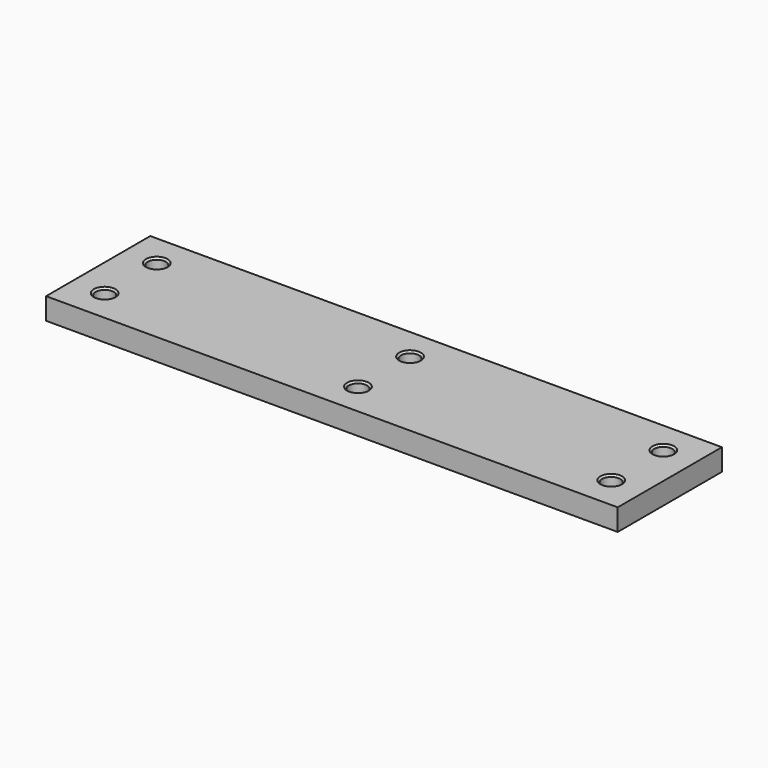
from build123d import *

# Parameters (mm, degrees)
F0_W     = 158
F0_H     = 36
F0_R     = 2.5
F1_DEPTH = 6
F2_SIZE  = 0.5


with BuildPart() as f1:
    # F0 (on Top) → F1 (new body)
    with BuildSketch(Plane.XY):
        Rectangle(F0_W, F0_H)
        with Locations((-70, -9)):
            Circle(F0_R, mode=Mode.SUBTRACT)
        with Locations((0, -9)):
            Circle(F0_R, mode=Mode.SUBTRACT)
        with Locations((70, -9)):
            Circle(F0_R, mode=Mode.SUBTRACT)
        with Locations((-70, 9)):
            Circle(F0_R, mode=Mode.SUBTRACT)
        with Locations((0, 9)):
            Circle(F0_R, mode=Mode.SUBTRACT)
        with Locations((70, 9)):
            Circle(F0_R, mode=Mode.SUBTRACT)
    extrude(amount=F1_DEPTH)

    # F2
    f2_edges = [f1.edges().sort_by_distance(p)[0] for p in [
        (-67.5, -9, 3),
        (-72.5, -9, 0),
        (-72.5, -9, 6),
        (-67.5, 9, 3),
        (-72.5, 9, 0),
        (-72.5, 9, 6),
        (2.5, -9, 3),
        (-2.5, -9, 0),
        (-2.5, -9, 6),
        (2.5, 9, 3),
        (-2.5, 9, 0),
        (-2.5, 9, 6),
        (72.5, -9, 3),
        (67.5, -9, 0),
        (67.5, -9, 6),
        (72.5, 9, 3),
        (67.5, 9, 0),
        (67.5, 9, 6),
    ]]
    chamfer(f2_edges, length=F2_SIZE)


solid = f1.part
